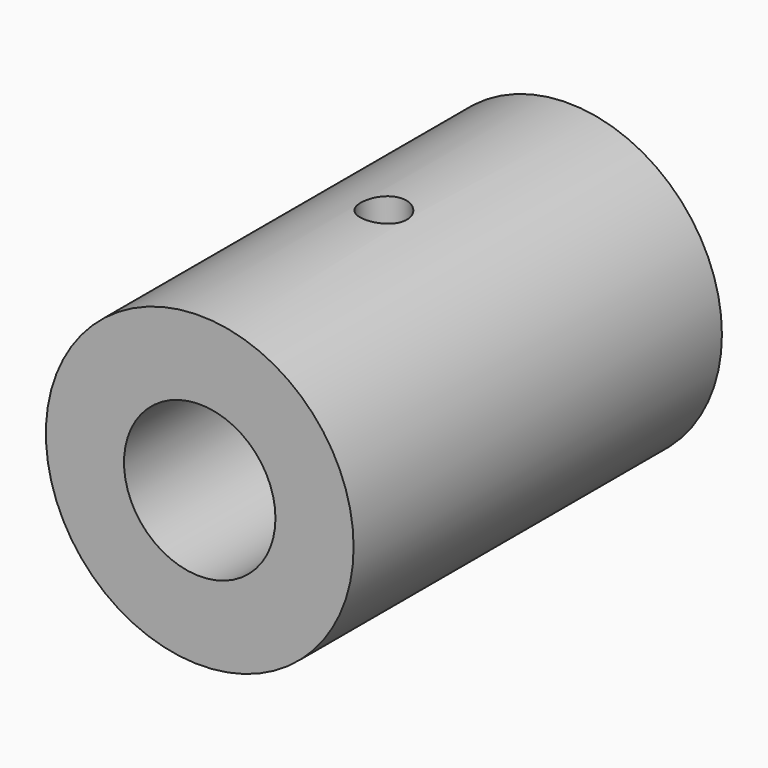
from build123d import *

# Parameters (mm, degrees)
F0_R     = 12.7
F0_R_2   = 6.25
F1_DEPTH = 19
F2_R     = 1.9
F3_DEPTH = 13.7000001001


with BuildPart() as f1:
    # F0 (on Front) → F1 (new body, symmetric)
    with BuildSketch(Plane.XZ):
        Circle(F0_R)
        Circle(F0_R_2, mode=Mode.SUBTRACT)
    extrude(amount=F1_DEPTH, both=True)

    # F2 (on Top) → F3 (cut, up to face)
    with BuildSketch(Plane.XY):
        Circle(F2_R)
    extrude(amount=F3_DEPTH, mode=Mode.SUBTRACT)


solid = f1.part
